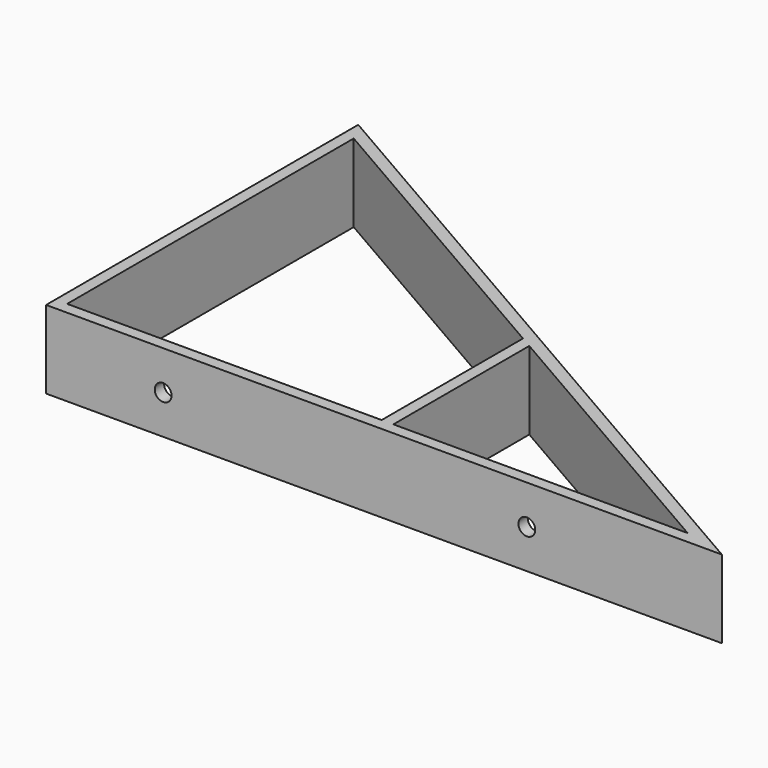
from build123d import *

# Parameters (mm, degrees)
F1_DEPTH = 20
F2_T     = -3
F4_DEPTH = 20
F6_D     = 4.3
F6_DEPTH = 5
F6_TIP   = 1.2918503309


with BuildPart() as f1:
    # F0 (on Top) → F1 (new body)
    with BuildSketch(Plane.XY):
        Polygon((0, 100), (0, 0), (173.2050807569, 0), align=None)
    extrude(amount=F1_DEPTH)

    # F2
    f2_openings = [f1.faces().sort_by_distance(p)[0] for p in [
        (57.735027, 33.333333, 20),
        (57.735027, 33.333333, 0),
    ]]
    offset(amount=F2_T, openings=f2_openings)

    # F3 (on face) → F4 (join)
    with BuildSketch(Plane.XY.offset(20)):
        Polygon((86.6025403784, 3), (86.6025403784, 46.5358983849), (83.6025403784, 48.2679491924), (83.6025403784, 3), align=None)
    extrude(amount=-F4_DEPTH)

    # F6
    with Locations(Plane.XZ):
        with Locations((30, 10), (123.2050807569, 10)):
            Hole(F6_D / 2, depth=F6_DEPTH)
            with Locations((0, 0, -(F6_DEPTH + F6_TIP / 2))):  # 118° drill point
                Cone(0, F6_D / 2, F6_TIP, mode=Mode.SUBTRACT)


solid = f1.part
